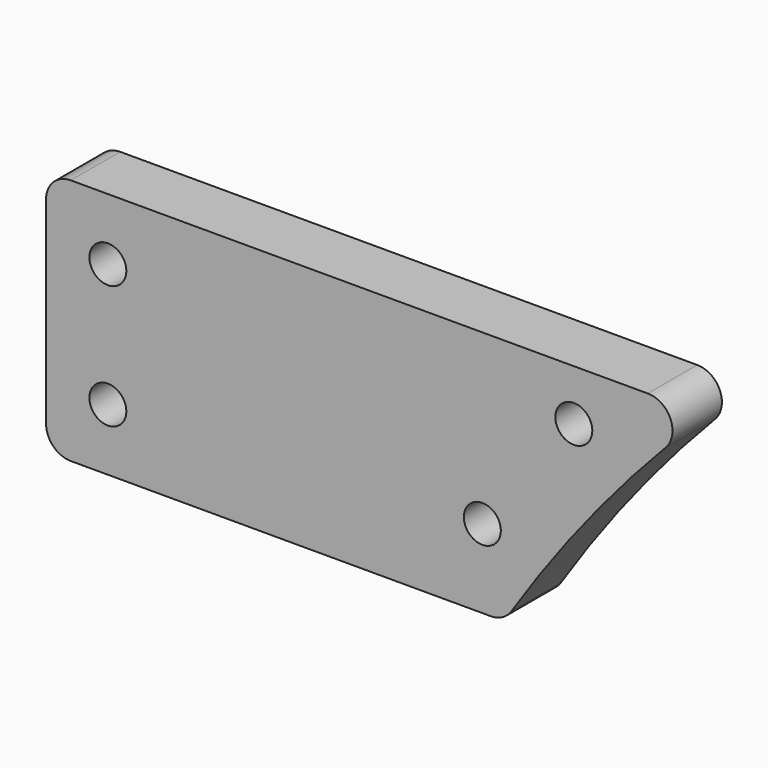
from build123d import *

# Parameters (mm, degrees)
F0_R     = 1.89865
F1_DEPTH = 6.35
F2_R     = 2.54


with BuildPart() as f1:
    # F0 (on Front) → F1 (new body)
    with BuildSketch(Plane.XZ):
        with BuildLine():
            Line((25.4, 12.7), (-25.4, 12.7))
            Line((-25.4, 12.7), (-25.4, -12.7))
            Line((-25.4, -12.7), (21.697372, -12.7))
            ThreePointArc((21.697372, -12.7), (31.376858, 0.631495), (42.591687, 12.7))
            Line((42.591687, 12.7), (25.4, 12.7))
        make_face()
        with Locations((-19.05, -6.35)):
            Circle(F0_R, mode=Mode.SUBTRACT)
        with Locations((19.443282, -4.627923)):
            Circle(F0_R, mode=Mode.SUBTRACT)
        with Locations((-19.05, 6.35)):
            Circle(F0_R, mode=Mode.SUBTRACT)
        with Locations((28.845761, 7.475595)):
            Circle(F0_R, mode=Mode.SUBTRACT)
    extrude(amount=F1_DEPTH)

    # F2
    f2_edges = [f1.edges().sort_by_distance(p)[0] for p in [
        (-25.4, -3.175, 12.7),
        (-25.4, -3.175, -12.7),
        (42.591687, -3.175, 12.7),
        (21.697372, -3.175, -12.7),
    ]]
    fillet(f2_edges, radius=F2_R)


solid = f1.part
